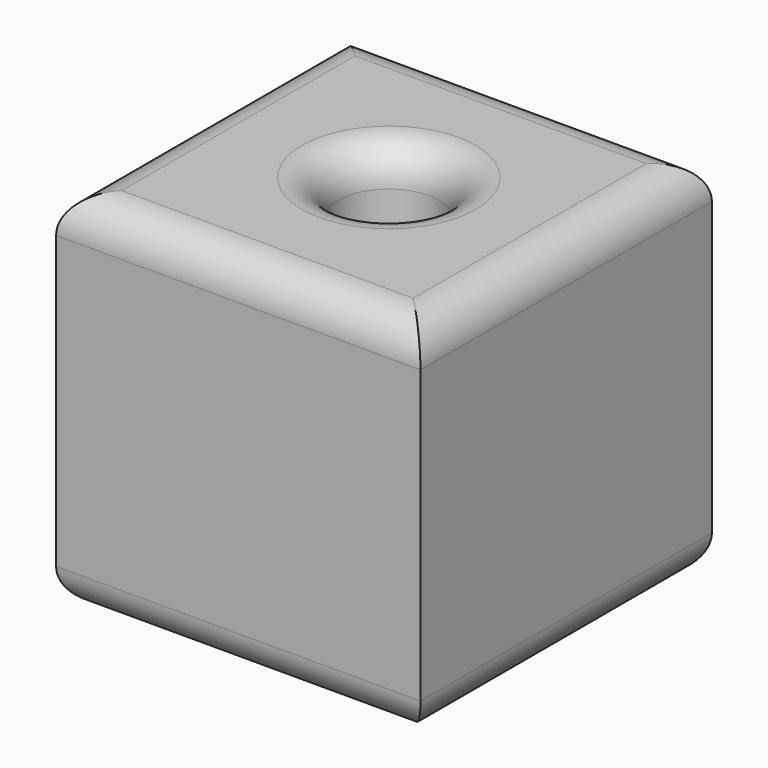
from build123d import *

# Parameters (mm, degrees)
F0_W     = 50
F0_H     = 50
F0_R     = 6.92614
F1_DEPTH = 50
F2_DEPTH = 20
F3_R     = 5
F4_R     = 5


with BuildPart() as f1:
    # F0 (on Top) → F1 (new body)
    with BuildSketch(Plane.XY):
        with Locations((-0.460617, -0.251955)):
            Rectangle(F0_W, F0_H)
        Circle(F0_R, mode=Mode.SUBTRACT)
    extrude(amount=F1_DEPTH)

    # F0 (on Top) → F2 (cut)
    with BuildSketch(Plane.XY):
        with Locations((-0.460617, -0.251955)):
            Rectangle(F0_W, F0_H)
        Circle(F0_R, mode=Mode.SUBTRACT)
    extrude(amount=-F2_DEPTH, mode=Mode.SUBTRACT)

    # F3
    f3_edges = [f1.edges().sort_by_distance(p)[0] for p in [
        (-0.460617, 24.748045, 50),
        (-25.460617, -0.251955, 50),
        (-0.460617, -25.251955, 50),
        (24.539383, -0.251955, 50),
        (-6.92614, 0, 50),
    ]]
    fillet(f3_edges, radius=F3_R)

    # F4
    f4_edges = [f1.edges().sort_by_distance(p)[0] for p in [
        (-0.460617, 24.748045, 0),
        (-25.460617, -0.251955, 0),
        (-0.460617, -25.251955, 0),
        (24.539383, -0.251955, 0),
        (-6.92614, 0, 0),
    ]]
    fillet(f4_edges, radius=F4_R)


solid = f1.part
